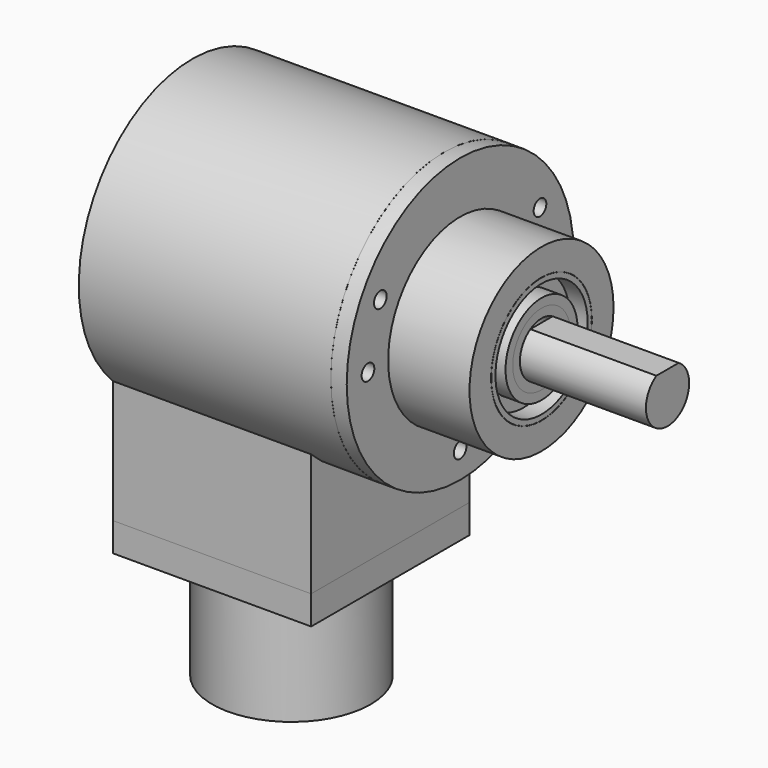
from build123d import *

# Parameters (mm, degrees)
F0_R      = 25.0063
F0_R_2    = 1.397
F1_DEPTH  = 2.794
F2_R      = 15.875
F2_R_2    = 11.1125
F3_DEPTH  = 14.351
F5_DEPTH  = 22.225
F6_R      = 25.0180713207
F7_DEPTH  = 44.45
F9_DEPTH  = 34.925
F10_R     = 6.35
F10_R_2   = 4.7625
F11_DEPTH = 6.35
F12_R     = 7.9375
F12_R_2   = 6.35
F13_DEPTH = 6.35
F14_R     = 11.08447927
F14_R_2   = 10.16
F15_DEPTH = 6.35
F16_R     = 10.1427061105
F16_R_2   = 7.9585807432
F17_DEPTH = 3.175
F19_W     = 34.925
F19_H     = 34.925
F19_R     = 13.97
F20_DEPTH = 5.08
F21_R     = 13.97
F21_R_2   = 11.684
F22_DEPTH = 20.32


with BuildPart() as f1:
    # F0 (on Right) → F1 (new body)
    with BuildSketch(Plane.YZ):
        Circle(F0_R)
        with Locations((0, -20.32)):
            Circle(F0_R_2, mode=Mode.SUBTRACT)
        with Locations((-20.32, 0)):
            Circle(F0_R_2, mode=Mode.SUBTRACT)
        with Locations((-17.5976362049, 10.16)):
            Circle(F0_R_2, mode=Mode.SUBTRACT)
        with Locations((20.32, 0)):
            Circle(F0_R_2, mode=Mode.SUBTRACT)
        with Locations((17.5976362049, 10.16)):
            Circle(F0_R_2, mode=Mode.SUBTRACT)
    extrude(amount=F1_DEPTH)

    # F2 (on face) → F3 (join)
    with BuildSketch(Plane.YZ.offset(2.794)):
        Circle(F2_R)
        Circle(F2_R_2, mode=Mode.SUBTRACT)
    extrude(amount=F3_DEPTH)


with BuildPart() as f5:
    # F4 (on face) → F5 (new body)
    with BuildSketch(Plane.YZ.offset(17.145)):
        with BuildLine():
            Line((2.4582480132, 4.0790223039), (-2.4582480132, 4.0790223039))
            ThreePointArc((-2.4582480132, 4.0790223039), (0, -4.7625), (2.4582480132, 4.0790223039))
        make_face()
    extrude(amount=F5_DEPTH)


with BuildPart() as f7:
    # F6 (on Right) → F7 (new body)
    with BuildSketch(Plane.YZ):
        Circle(F6_R)
    extrude(amount=-F7_DEPTH)

    # F8 (on face) → F9 (join)
    with BuildSketch(Plane(origin=(-44.45, 0, 0), x_dir=(0, -1, 0), z_dir=(-1, 0, 0))):
        with BuildLine():
            Line((-17.475200817, -38.1248667836), (-17.475200817, -39.588577036))
            Line((-17.475200817, -39.588577036), (17.449799183, -39.588577036))
            Line((17.449799183, -39.588577036), (17.449799183, -38.6783927679))
            Line((17.449799183, -38.6783927679), (17.449799183, -17.9278666071))
            ThreePointArc((17.449799183, -17.9278666071), (-0.0177360441, -25.0180650339), (-17.475200817, -17.9031072447))
            Line((-17.475200817, -17.9031072447), (-17.475200817, -38.1248667836))
        make_face()
    extrude(amount=-F9_DEPTH)


with BuildPart() as f11:
    # F10 (on face) → F11 (new body)
    with BuildSketch(Plane.YZ.offset(17.145)):
        Circle(F10_R)
        Circle(F10_R_2, mode=Mode.SUBTRACT)
    extrude(amount=-F11_DEPTH)


with BuildPart() as f13:
    # F12 (on face) → F13 (new body)
    with BuildSketch(Plane.YZ.offset(17.145)):
        Circle(F12_R)
        Circle(F12_R_2, mode=Mode.SUBTRACT)
    extrude(amount=-F13_DEPTH)


with BuildPart() as f15:
    # F14 (on face) → F15 (new body)
    with BuildSketch(Plane.YZ.offset(17.145)):
        Circle(F14_R)
        Circle(F14_R_2, mode=Mode.SUBTRACT)
    extrude(amount=-F15_DEPTH)


with BuildPart() as f17:
    # F16 (on face) → F17 (new body)
    with BuildSketch(Plane.YZ.offset(17.145)):
        Circle(F16_R)
        Circle(F16_R_2, mode=Mode.SUBTRACT)
    extrude(amount=F17_DEPTH)


with BuildPart() as f17_1:
    # F18: moved
    add(f17.part.moved(Location((-6.35, 0, 0))))


with BuildPart() as f20:
    # F19 (on face) → F20 (new body)
    with BuildSketch(Plane(origin=(0, 0, -39.588577036), x_dir=(1, 0, 0), z_dir=(0, 0, -1))):
        with Locations((-26.9875, -0.012700817)):
            Rectangle(F19_W, F19_H)
        with Locations((-26.9748, -0.025400817)):
            Circle(F19_R, mode=Mode.SUBTRACT)
    extrude(amount=F20_DEPTH)


with BuildPart() as f22:
    # F21 (on face) → F22 (new body)
    with BuildSketch(Plane(origin=(0, 0, -44.668577036), x_dir=(1, 0, 0), z_dir=(0, 0, -1))):
        with Locations((-26.9748, -0.025400817)):
            Circle(F21_R)
        with Locations((-26.9748, -0.025400817)):
            Circle(F21_R_2, mode=Mode.SUBTRACT)
    extrude(amount=F22_DEPTH)


solid = Compound([f1.part, f5.part, f7.part, f11.part, f13.part, f15.part, f17_1.part, f20.part, f22.part])
